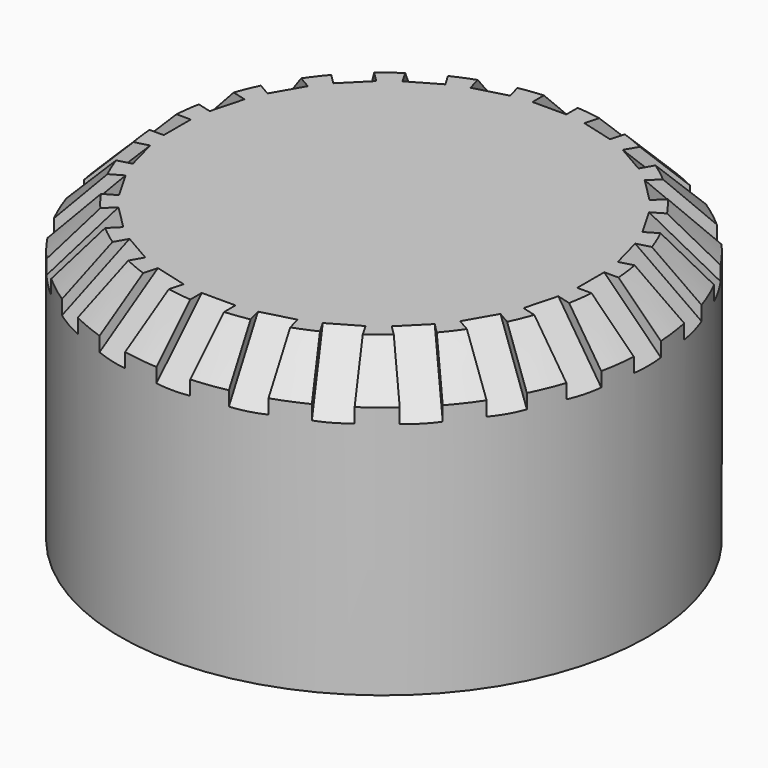
from build123d import *

# Parameters (mm, degrees)
SKETCH044_R           = 12.5
PAD023_DEPTH          = 10
POCKET015_DEPTH       = 6
CHAMFER011_SIZE       = 2
POCKET016_DEPTH       = 8
SKETCH047_R           = 12.5
SKETCH047_R_2         = 11
PAD024_DEPTH          = 4
POCKET017_DEPTH       = 0.8
POCKET017_DEPTH_BACK  = 0.8
POLARPATTERN002_COUNT = 24
SKETCH049_W           = 20
SKETCH049_H           = 1.6
POCKET018_DEPTH       = 0.5
CHAMFER012_SIZE       = 1
CHAMFER013_SIZE       = 0.5


with BuildPart() as part:
    # Sketch044 → Pad023 (new body)
    with BuildSketch(Plane.XY):
        Circle(SKETCH044_R)
    extrude(amount=PAD023_DEPTH)

    # Sketch045 → Pocket015 (cut)
    with BuildSketch(Plane.XY):
        with BuildLine():
            ThreePointArc((-2.93428, 1), (0, -3.1), (2.93428, 1))
            Line((-2.93428, 1), (2.93428, 1))
        make_face()
    extrude(amount=POCKET015_DEPTH, mode=Mode.SUBTRACT)

    # Chamfer011
    chamfer011_edges = [part.edges().sort_by_distance(p)[0] for p in [
        (-12.5, 0, 10),
    ]]
    chamfer(chamfer011_edges, length=CHAMFER011_SIZE)

    # Sketch046 → Pocket016 (cut)
    with BuildSketch(Plane.XY):
        with BuildLine():
            Line((-10, 0.8), (-10, 0.7))
            ThreePointArc((-10, 0.7), (-9.941421, 0.558579), (-9.8, 0.5))
            Line((-9.8, 0.5), (9.8, 0.5))
            ThreePointArc((9.8, 0.5), (9.941421, 0.558579), (10, 0.7))
            Line((10, 0.7), (10, 0.8))
            ThreePointArc((10, 0.8), (9.941421, 0.941421), (9.8, 1))
            Line((9.8, 1), (-9.8, 1))
            ThreePointArc((-9.8, 1), (-9.941421, 0.941421), (-10, 0.8))
        make_face()
        with BuildLine():
            Line((-10, 2.6), (-10, 2.4))
            ThreePointArc((-10, 2.4), (-9.882843, 2.117157), (-9.6, 2))
            Line((-9.6, 2), (9.6, 2))
            ThreePointArc((9.6, 2), (9.882843, 2.117157), (10, 2.4))
            Line((10, 2.4), (10, 2.6))
            ThreePointArc((10, 2.6), (9.882843, 2.882843), (9.6, 3))
            Line((9.6, 3), (-9.6, 3))
            ThreePointArc((-9.6, 3), (-9.882843, 2.882843), (-10, 2.6))
        make_face()
    extrude(amount=POCKET016_DEPTH, mode=Mode.SUBTRACT)

    # Sketch047 → Pad024 (join)
    with BuildSketch(Plane.XY):
        Circle(SKETCH047_R)
        Circle(SKETCH047_R_2, mode=Mode.SUBTRACT)
    extrude(amount=-PAD024_DEPTH)

    # Sketch048 → Pocket017 (cut, two sides)
    with BuildSketch(Plane.YZ) as pocket017_sk:
        Polygon((-9.792893, 10), (-12.5, 7.292893), (-12.853553, 7.646447), (-10.146447, 10.353553), align=None)
    pocket017 = extrude(amount=-POCKET017_DEPTH, mode=Mode.SUBTRACT) + extrude(pocket017_sk.sketch, amount=POCKET017_DEPTH_BACK, mode=Mode.SUBTRACT)

    # PolarPattern002: Pocket017 ×24 about axis
    polarpattern002_axis = Axis((0, 0, 0), (0, 0, 1))
    for i in range(1, POLARPATTERN002_COUNT):
        add(pocket017.rotate(polarpattern002_axis, i * 360 / POLARPATTERN002_COUNT), mode=Mode.SUBTRACT)

    # Sketch049 (on Face120 of PolarPattern002) → Pocket018 (cut)
    with BuildSketch(Plane(origin=(0, 0, 6), x_dir=(1, 0, 0), z_dir=(0, 0, -1))):
        with Locations((0, -1.6)):
            Rectangle(SKETCH049_W, SKETCH049_H)
    extrude(amount=POCKET018_DEPTH, mode=Mode.SUBTRACT)

    # Chamfer012
    chamfer012_edges = [part.edges().sort_by_distance(p)[0] for p in [
        (0, -3.1, 0),
    ]]
    chamfer(chamfer012_edges, length=CHAMFER012_SIZE)

    # Chamfer013
    chamfer013_edges = [part.edges().sort_by_distance(p)[0] for p in [
        (0, 1, 0),
    ]]
    chamfer(chamfer013_edges, length=CHAMFER013_SIZE)


with BuildPart() as part_1:
    # Body008 placement: moved
    add(part.part.moved(Location((99.16, -174.6, 12.5))))


solid = part_1.part
